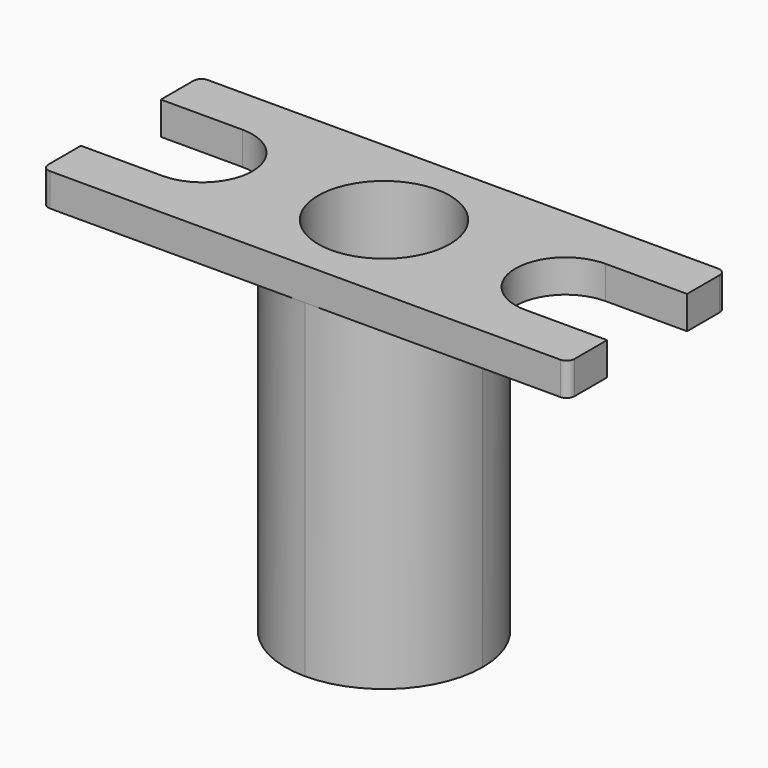
from build123d import *

# Parameters (mm, degrees)
F0_W     = 101.6
F0_H     = 38.1
F0_R     = 12.7
F1_DEPTH = 6.35
F2_R     = 12.7
F3_DEPTH = 69.85
F5_DEPTH = 25.4
F6_R     = 1.524
F7_R     = 12.7
F7_R_2   = 4.7625
F8_DEPTH = 6.35


with BuildPart() as f1:
    # F0 (on Top) → F1 (new body)
    with BuildSketch(Plane.XY):
        Rectangle(F0_W, F0_H)
        Circle(F0_R, mode=Mode.SUBTRACT)
    extrude(amount=-F1_DEPTH)

    # F2 (on face) → F3 (join)
    with BuildSketch(Plane.XY):
        with BuildLine():
            ThreePointArc((0, -19.05), (13.470384, -13.470384), (19.05, 0))
            ThreePointArc((19.05, 0), (13.470384, 13.470384), (0, 19.05))
            ThreePointArc((0, 19.05), (-19.05, 0), (0, -19.05))
        make_face()
        Circle(F2_R, mode=Mode.SUBTRACT)
    extrude(amount=-F3_DEPTH)

    # F4 (on face) → F5 (cut)
    with BuildSketch(Plane.XY):
        with BuildLine():
            Line((-50.8, -9.652), (-35.052, -9.652))
            ThreePointArc((-35.052, -9.652), (-25.4, 0), (-35.052, 9.652))
            Line((-35.052, 9.652), (-50.8, 9.652))
            Line((-50.8, 9.652), (-50.8, -9.652))
        make_face()
        with BuildLine():
            Line((35.052, -9.652), (50.8, -9.652))
            Line((50.8, -9.652), (50.8, 9.652))
            Line((50.8, 9.652), (35.052, 9.652))
            ThreePointArc((35.052, 9.652), (25.4, 0), (35.052, -9.652))
        make_face()
    extrude(amount=-F5_DEPTH, mode=Mode.SUBTRACT)

    # F6
    f6_edges = [f1.edges().sort_by_distance(p)[0] for p in [
        (-50.8, 19.05, -3.175),
        (-50.8, -19.05, -3.175),
        (50.8, -19.05, -3.175),
        (50.8, 19.05, -3.175),
    ]]
    fillet(f6_edges, radius=F6_R)

    # F7 (on face) → F8 (join)
    with BuildSketch(Plane(origin=(0, 0, -69.85), x_dir=(1, 0, 0), z_dir=(0, 0, -1))):
        Circle(F7_R)
        Circle(F7_R_2, mode=Mode.SUBTRACT)
    extrude(amount=-F8_DEPTH)


solid = f1.part
